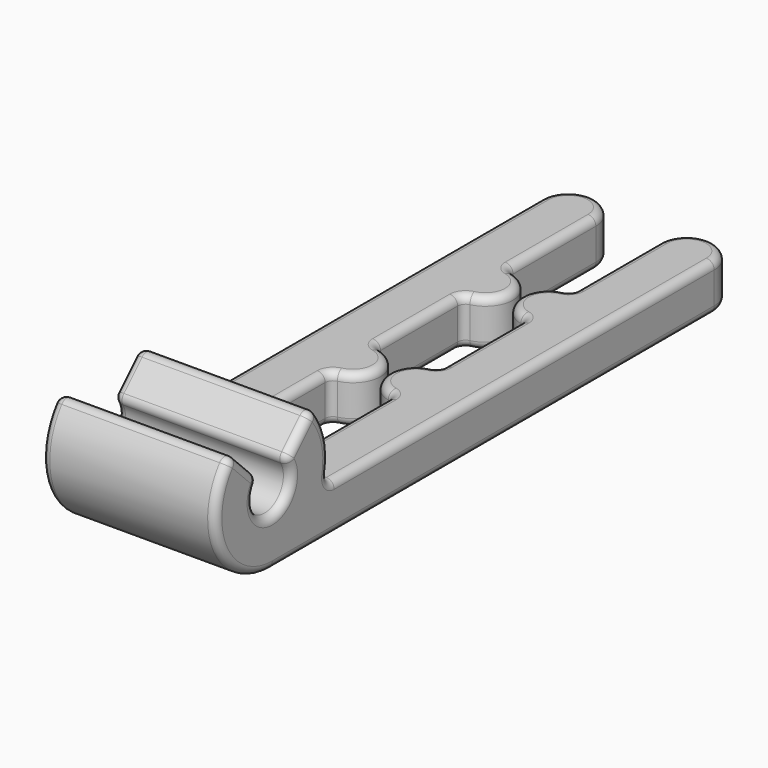
from build123d import *

# Parameters (mm, degrees)
PAD_DEPTH    = 3
PAD001_DEPTH = 11
FILLET_R     = 0.5


with BuildPart() as body:
    # Sketch → Pad (new body)
    with BuildSketch(Plane.XY):
        with BuildLine():
            Line((0, 0), (0, 35))
            ThreePointArc((3.5, 35), (1.75, 36.75), (0, 35))
            Line((3.5, 35), (3.5, 28))
            ThreePointArc((3.5, 24.5), (5.25, 26.25), (3.5, 28))
            Line((3.5, 24.5), (3.5, 17.5))
            ThreePointArc((3.5, 14), (5.25, 15.75), (3.5, 17.5))
            Line((3.5, 14), (3.5, 3.5))
            Line((3.5, 3.5), (7.5, 3.5))
            Line((7.5, 3.5), (7.5, 14))
            ThreePointArc((7.5, 17.5), (5.75, 15.75), (7.5, 14))
            Line((7.5, 17.5), (7.5, 24.5))
            ThreePointArc((7.5, 28), (5.75, 26.25), (7.5, 24.5))
            Line((7.5, 28), (7.5, 35))
            ThreePointArc((11, 35), (9.25, 36.75), (7.5, 35))
            Line((11, 35), (11, 0))
            Line((11, 0), (0, 0))
        make_face()
    extrude(amount=PAD_DEPTH)


with BuildPart() as fillet_body:
    # Sketch003 → Pad001 (new body)
    with BuildSketch(Plane.YZ):
        with BuildLine():
            ThreePointArc((-3.181981, 7.681981), (0, 0), (3.181981, 7.681981))
            Line((1.06066, 5.56066), (3.181981, 7.681981))
            ThreePointArc((-1.06066, 5.56066), (0, 3), (1.06066, 5.56066))
            Line((-1.06066, 5.56066), (-3.181981, 7.681981))
        make_face()
    extrude(amount=PAD001_DEPTH)

    # Fusion: union Body
    add(body.part)

    # Fillet
    fillet_edges = [fillet_body.edges().sort_by_distance(p)[0] for p in [
        (5.5, 1.06066, 5.56066),
        (5.5, 3.181981, 7.681981),
        (0, 2.12132, 6.62132),
        (11, 2.12132, 6.62132),
        (0, 4.388791, 5.494241),
        (11, 4.388791, 5.494241),
        (9.25, 4.242641, 3),
        (7.5, 3.927888, 2.304163),
        (5.5, 3.5, 1.671573),
        (3.5, 3.927888, 2.304163),
        (1.75, 4.242641, 3),
        (5.5, -1.06066, 5.56066),
        (5.5, -3.181981, 7.681981),
        (0, -2.12132, 6.62132),
        (11, -2.12132, 6.62132),
        (0, -4.157458, 2.777925),
        (5.5, 0, 0),
        (11, -4.157458, 2.777925),
        (11, 17.5, 0),
        (0, 17.5, 0),
        (1.75, 36.75, 0),
        (3.5, 31.5, 0),
        (5.25, 26.25, 0),
        (3.5, 21, 0),
        (5.25, 15.75, 0),
        (3.5, 8.75, 0),
        (5.5, 3.5, 0),
        (7.5, 8.75, 0),
        (5.75, 15.75, 0),
        (7.5, 21, 0),
        (5.75, 26.25, 0),
        (7.5, 31.5, 0),
        (9.25, 36.75, 0),
        (0, 35, 1.5),
        (1.75, 36.75, 3),
        (3.5, 28, 1.5),
        (3.5, 31.5, 3),
        (3.5, 24.5, 1.5),
        (5.25, 26.25, 3),
        (3.5, 17.5, 1.5),
        (3.5, 21, 3),
        (3.5, 14, 1.5),
        (5.25, 15.75, 3),
        (3.5, 3.5, 0.835786),
        (3.5, 9.12132, 3),
        (7.5, 3.5, 0.835786),
        (7.5, 14, 1.5),
        (7.5, 9.12132, 3),
        (7.5, 17.5, 1.5),
        (5.75, 15.75, 3),
        (7.5, 24.5, 1.5),
        (7.5, 21, 3),
        (7.5, 28, 1.5),
        (5.75, 26.25, 3),
        (7.5, 31.5, 3),
        (11, 35, 1.5),
        (9.25, 36.75, 3),
        (11, 19.62132, 3),
        (0, 19.62132, 3),
        (0, -1.385819, 3.925975),
        (0, 1.385819, 3.925975),
        (11, -1.385819, 3.925975),
        (11, 1.385819, 3.925975),
    ]]
    fillet(fillet_edges, radius=FILLET_R)


solid = fillet_body.part
